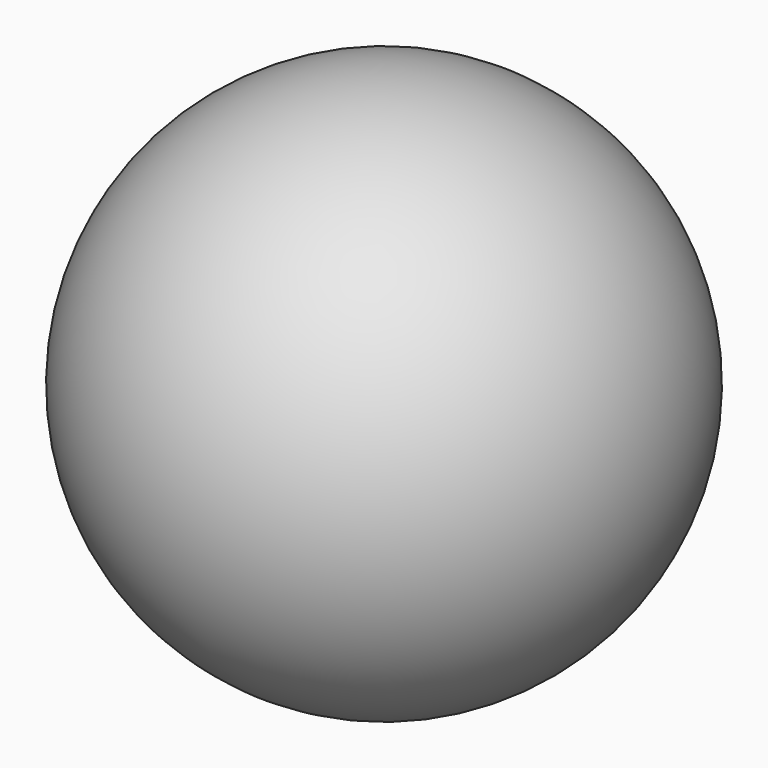
from build123d import *


with BuildPart() as f1:
    # F0 (on Right) → F1 (revolve)
    with BuildSketch(Plane.YZ):
        with BuildLine():
            Line((0, 38.0950160325), (-56.3640110195, 0))
            ThreePointArc((-56.3640110195, 0), (-9.1344974935, -9.1344974935), (0, 38.0950160325))
        make_face()
    revolve(axis=Axis((0, -28.1820055097, 19.0475080162), (0, 0.8285124202, 0.5599706863)))


solid = f1.part
